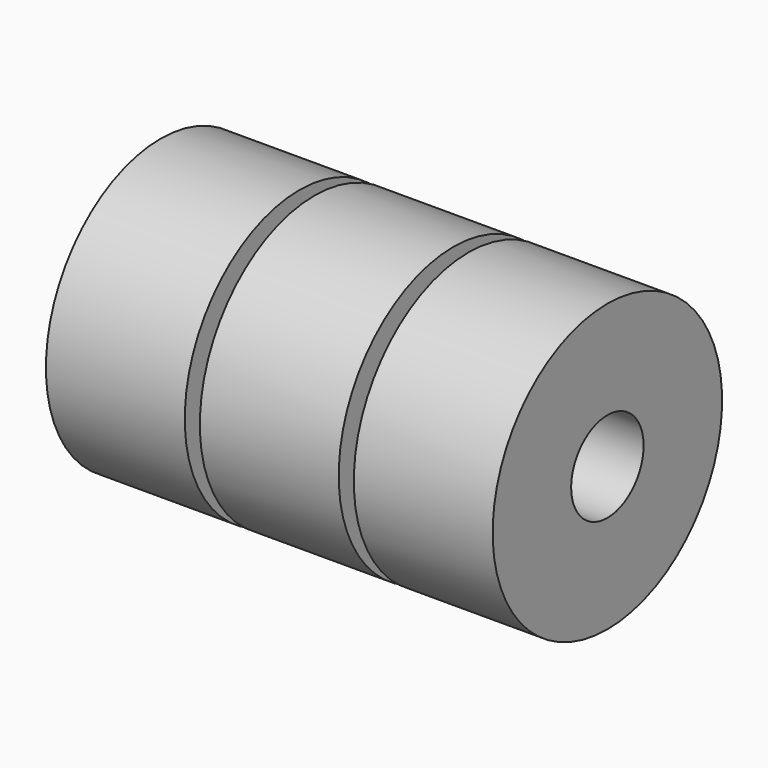
from build123d import *

# Parameters (mm, degrees)
CYLINDER001_R          = 15
CYLINDER001_DEPTH      = 46
CYLINDER_R             = 47.5
CYLINDER_DEPTH         = 46
CUT_PLACEMENT_ANGLE    = 90
CYLINDER003_R          = 15
CYLINDER003_DEPTH      = 46
CYLINDER002_R          = 47.5
CYLINDER002_DEPTH      = 46
CUT001_PLACEMENT_ANGLE = 90
CYLINDER005_R          = 15
CYLINDER005_DEPTH      = 46
CYLINDER004_R          = 47.5
CYLINDER004_DEPTH      = 46
CUT002_PLACEMENT_ANGLE = 90


with BuildPart() as cylinder001:
    # Cylinder001 → Cylinder001 (new body)
    with BuildSketch(Plane.XY):
        Circle(CYLINDER001_R)
    extrude(amount=CYLINDER001_DEPTH)


with BuildPart() as cut:
    # Cylinder → Cylinder (new body)
    with BuildSketch(Plane.XY):
        Circle(CYLINDER_R)
    extrude(amount=CYLINDER_DEPTH)

    # Cut: cut Cylinder001
    add(cylinder001.part, mode=Mode.SUBTRACT)


with BuildPart() as cut_1:
    # Cut placement: moved
    add(cut.part.moved(Location((5, 62, -56))).rotate(Axis((5, 62, -56), (0, 1, 0)), CUT_PLACEMENT_ANGLE))


with BuildPart() as cylinder003:
    # Cylinder003 → Cylinder003 (new body)
    with BuildSketch(Plane.XY):
        Circle(CYLINDER003_R)
    extrude(amount=CYLINDER003_DEPTH)


with BuildPart() as cut001:
    # Cylinder002 → Cylinder002 (new body)
    with BuildSketch(Plane.XY):
        Circle(CYLINDER002_R)
    extrude(amount=CYLINDER002_DEPTH)

    # Cut001: cut Cylinder003
    add(cylinder003.part, mode=Mode.SUBTRACT)


with BuildPart() as cut001_1:
    # Cut001 placement: moved
    add(cut001.part.moved(Location((56, 62, -56))).rotate(Axis((56, 62, -56), (0, 1, 0)), CUT001_PLACEMENT_ANGLE))


with BuildPart() as cylinder005:
    # Cylinder005 → Cylinder005 (new body)
    with BuildSketch(Plane.XY):
        Circle(CYLINDER005_R)
    extrude(amount=CYLINDER005_DEPTH)


with BuildPart() as obj1:
    # Cylinder004 → Cylinder004 (new body)
    with BuildSketch(Plane.XY):
        Circle(CYLINDER004_R)
    extrude(amount=CYLINDER004_DEPTH)

    # Cut002: cut Cylinder005
    add(cylinder005.part, mode=Mode.SUBTRACT)


with BuildPart() as obj1_1:
    # Cut002 placement: moved
    add(obj1.part.moved(Location((107, 62, -56))).rotate(Axis((107, 62, -56), (0, 1, 0)), CUT002_PLACEMENT_ANGLE))

    # Fusion: union Cut, Cut001
    add(cut_1.part)
    add(cut001_1.part)


with BuildPart() as obj1_2:
    # Fusion placement: moved
    add(obj1_1.part.moved(Location((5, 0, 0))))


solid = obj1_2.part
